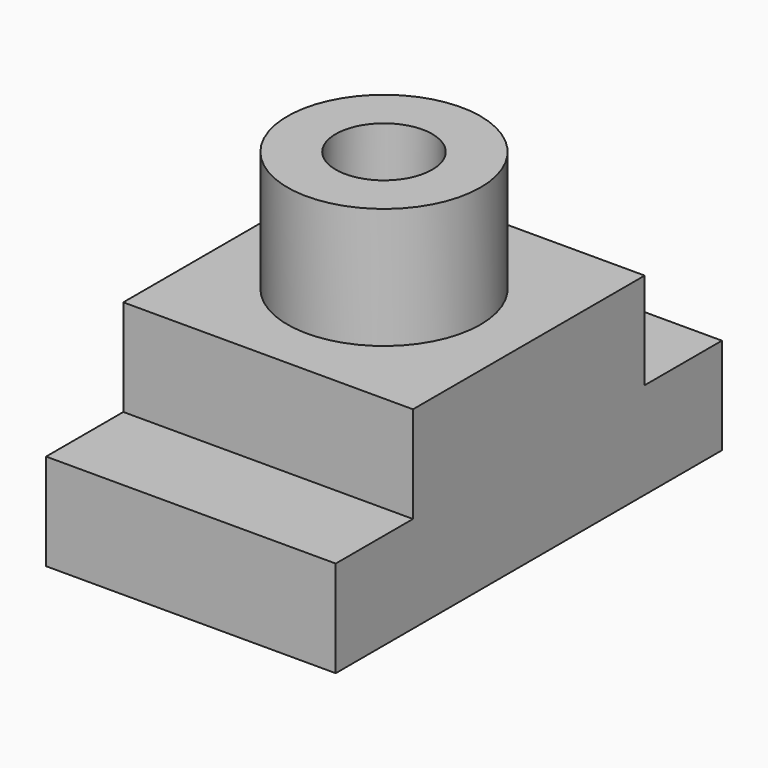
from build123d import *

# Parameters (mm, degrees)
F1_DEPTH = 38.1
F2_R     = 12.7
F2_R_2   = 6.35
F3_DEPTH = 15.875


with BuildPart() as f1:
    # F0 (on Right) → F1 (new body)
    with BuildSketch(Plane.YZ):
        Polygon((-31.75, 0), (0, 0), (0, 25.4), (-19.05, 25.4), (-19.05, 12.7), (-31.75, 12.7), align=None)
        Polygon((0, 25.4), (0, 0), (31.75, 0), (31.75, 12.7), (19.05, 12.7), (19.05, 25.4), align=None)
    extrude(amount=F1_DEPTH)

    # F2 (on face) → F3 (join)
    with BuildSketch(Plane.XY.offset(25.4)):
        with Locations((19.05, 0)):
            Circle(F2_R)
        with Locations((19.05, 0)):
            Circle(F2_R_2, mode=Mode.SUBTRACT)
    extrude(amount=F3_DEPTH)


solid = f1.part
